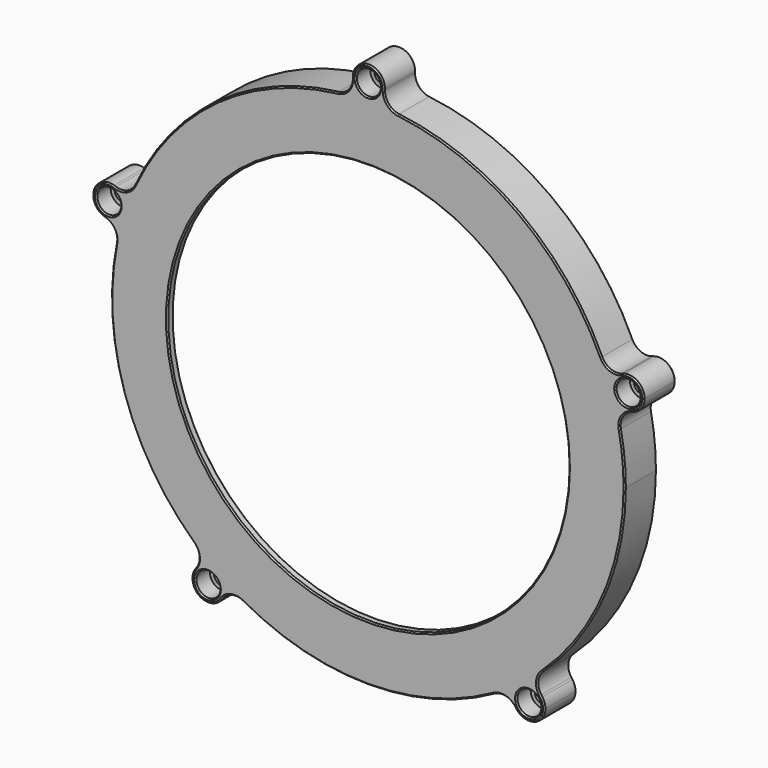
from build123d import *

# Parameters (mm, degrees)
F0_R     = 3.175
F0_R_2   = 98.425
F1_DEPTH = 15.875
F0_R_3   = 79.375
F2_DEPTH = 3.175
F3_R     = 6.35
F4_R     = 4.7625
F4_R_2   = 3.175
F5_DEPTH = 7.112
F6_SIZE  = 0.508


with BuildPart() as f1:
    # F0 (on Front) → F1 (new body)
    with BuildSketch(Plane.XZ):
        with BuildLine():
            ThreePointArc((94.476174201, 37.3739549465), (95.5984942164, 34.401859013), (96.6273421242, 31.3961264172))
            ThreePointArc((96.6273421242, 31.3961264172), (97.008659455, 36.2412241172), (100.7042930198, 39.3975934212))
            Line((100.7042930198, 39.3975934212), (94.476174201, 37.3739549465))
        make_face()
        with BuildLine():
            ThreePointArc((96.6273421242, 31.3961264172), (97.5617118991, 28.3596962488), (98.4006900295, 25.2955371896))
            Line((98.4006900295, 25.2955371896), (104.6288088483, 27.3191756643))
            ThreePointArc((104.6288088483, 27.3191756643), (99.7837113597, 27.7004930638), (96.6273421242, 31.3961264172))
        make_face()
        with BuildLine():
            ThreePointArc((100.7042930198, 39.3975934212), (97.008659455, 36.2412241172), (96.6273421242, 31.3961264172))
            ThreePointArc((96.6273421242, 31.3961264172), (99.7837113597, 27.7004930638), (104.6288088483, 27.3191756643))
            ThreePointArc((104.6288088483, 27.3191756643), (107.8038088483, 29.6259481907), (109.0165509341, 33.3583845428))
            ThreePointArc((109.0165509341, 33.3583845428), (106.3989872861, 38.4956424571), (100.7042930198, 39.3975934212))
        make_face()
        with Locations((102.6665509341, 33.3583845428)):
            Circle(F0_R, mode=Mode.SUBTRACT)
        with BuildLine():
            Line((68.5886758993, -83.6009481907), (64.7394867833, -78.302993883))
            ThreePointArc((64.7394867833, -78.302993883), (62.2596715502, -80.2888117888), (59.7189814811, -82.1961267388))
            ThreePointArc((59.7189814811, -82.1961267388), (64.4447767453, -81.0615635653), (68.5886758993, -83.6009481907))
        make_face()
        with BuildLine():
            ThreePointArc((68.5886758993, -83.6009481907), (64.4447767453, -81.0615635653), (59.7189814811, -82.1961267388))
            ThreePointArc((59.7189814811, -82.1961267388), (57.1795970075, -86.3400257824), (58.3141600707, -91.0658208948))
            ThreePointArc((58.3141600707, -91.0658208948), (65.4136758993, -93.3725934212), (69.801417985, -87.3333845428))
            ThreePointArc((69.801417985, -87.3333845428), (69.4906268634, -85.3711266285), (68.5886758993, -83.6009481907))
        make_face()
        with Locations((63.451417985, -87.3333845428)):
            Circle(F0_R, mode=Mode.SUBTRACT)
        with BuildLine():
            ThreePointArc((58.3141600707, -91.0658208948), (57.1795970075, -86.3400257824), (59.7189814811, -82.1961267388))
            ThreePointArc((59.7189814811, -82.1961267388), (57.119900909, -84.0230737366), (54.4649709547, -85.7678665871))
            Line((54.4649709547, -85.7678665871), (58.3141600707, -91.0658208948))
        make_face()
        with BuildLine():
            Line((-58.3141600707, -91.0658208948), (-54.4649709547, -85.7678665871))
            ThreePointArc((-54.4649709547, -85.7678665871), (-57.1199011195, -84.0230735935), (-59.7189818929, -82.1961264396))
            ThreePointArc((-59.7189818929, -82.1961264396), (-57.7935266293, -84.4505447262), (-57.101417985, -87.3333845428))
            ThreePointArc((-57.101417985, -87.3333845428), (-57.4122091065, -89.2956424571), (-58.3141600707, -91.0658208948))
        make_face()
        with BuildLine():
            ThreePointArc((-68.5886758993, -83.6009481907), (-64.4447769967, -81.0615636051), (-59.7189818929, -82.1961264396))
            ThreePointArc((-59.7189818929, -82.1961264396), (-62.2596717513, -80.2888116329), (-64.7394867833, -78.302993883))
            Line((-64.7394867833, -78.302993883), (-68.5886758993, -83.6009481907))
        make_face()
        with BuildLine():
            ThreePointArc((-57.101417985, -87.3333845428), (-57.7935266293, -84.4505447262), (-59.7189818929, -82.1961264396))
            ThreePointArc((-59.7189818929, -82.1961264396), (-64.4447769967, -81.0615636051), (-68.5886758993, -83.6009481907))
            ThreePointArc((-68.5886758993, -83.6009481907), (-67.183854337, -92.4706424571), (-58.3141600707, -91.0658208948))
            ThreePointArc((-58.3141600707, -91.0658208948), (-57.4122091065, -89.2956424571), (-57.101417985, -87.3333845428))
        make_face()
        with Locations((-63.451417985, -87.3333845428)):
            Circle(F0_R, mode=Mode.SUBTRACT)
        with BuildLine():
            ThreePointArc((-104.6288088483, 27.3191756643), (-99.7837113781, 27.7004930543), (-96.627342137, 31.3961263778))
            ThreePointArc((-96.627342137, 31.3961263778), (-96.3947299919, 32.3650255596), (-96.3165509341, 33.3583845428))
            ThreePointArc((-96.3165509341, 33.3583845428), (-97.5292930198, 37.0908208948), (-100.7042930198, 39.3975934212))
            ThreePointArc((-100.7042930198, 39.3975934212), (-108.7057598125, 35.3206424571), (-104.6288088483, 27.3191756643))
        make_face()
        with Locations((-102.6665509341, 33.3583845428)):
            Circle(F0_R, mode=Mode.SUBTRACT)
        with BuildLine():
            ThreePointArc((-96.627342137, 31.3961263778), (-95.5984942234, 34.4018589935), (-94.476174201, 37.3739549465))
            Line((-94.476174201, 37.3739549465), (-100.7042930198, 39.3975934212))
            ThreePointArc((-100.7042930198, 39.3975934212), (-97.5292930198, 37.0908208948), (-96.3165509341, 33.3583845428))
            ThreePointArc((-96.3165509341, 33.3583845428), (-96.3947299919, 32.3650255596), (-96.627342137, 31.3961263778))
        make_face()
        with BuildLine():
            Line((-104.6288088483, 27.3191756643), (-98.4006900295, 25.2955371896))
            ThreePointArc((-98.4006900295, 25.2955371896), (-97.5617119048, 28.3596962289), (-96.627342137, 31.3961263778))
            ThreePointArc((-96.627342137, 31.3961263778), (-99.7837113781, 27.7004930543), (-104.6288088483, 27.3191756643))
        make_face()
        with BuildLine():
            ThreePointArc((-6.35, 107.95), (-4.490128111, 103.4598719899), (-1.426e-07, 101.6))
            ThreePointArc((-1.426e-07, 101.6), (4.4901280101, 103.459871889), (6.35, 107.95))
            ThreePointArc((6.35, 107.95), (0, 114.3), (-6.35, 107.95))
        make_face()
        with Locations((0, 107.95)):
            Circle(F0_R, mode=Mode.SUBTRACT)
        with BuildLine():
            ThreePointArc((-1.426e-07, 101.6), (3.1765528772, 101.5503299444), (6.35, 101.401368334))
            Line((6.35, 101.401368334), (6.35, 107.95))
            ThreePointArc((6.35, 107.95), (4.4901280101, 103.459871889), (-1.426e-07, 101.6))
        make_face()
        with BuildLine():
            ThreePointArc((-6.35, 101.401368334), (-3.1765530198, 101.5503299399), (-1.426e-07, 101.6))
            ThreePointArc((-1.426e-07, 101.6), (-4.490128111, 103.4598719899), (-6.35, 107.95))
            Line((-6.35, 107.95), (-6.35, 101.401368334))
        make_face()
        with BuildLine():
            ThreePointArc((64.7394867833, -78.302993883), (91.9241313725, -43.2725556376), (101.6, 0))
            ThreePointArc((101.6, 0), (100.7969992287, 12.7485272286), (98.4006900295, 25.2955371896))
            ThreePointArc((98.4006900295, 25.2955371896), (97.5617118991, 28.3596962488), (96.6273421242, 31.3961264172))
            ThreePointArc((96.6273421242, 31.3961264172), (95.5984942164, 34.401859013), (94.476174201, 37.3739549465))
            ThreePointArc((94.476174201, 37.3739549465), (59.7189816329, 82.1961266285), (6.35, 101.401368334))
            ThreePointArc((6.35, 101.401368334), (3.1765528772, 101.5503299444), (-1.426e-07, 101.6))
            ThreePointArc((-1.426e-07, 101.6), (-3.1765530198, 101.5503299399), (-6.35, 101.401368334))
            ThreePointArc((-6.35, 101.401368334), (-59.7189816329, 82.1961266285), (-94.476174201, 37.3739549465))
            ThreePointArc((-94.476174201, 37.3739549465), (-95.5984942234, 34.4018589935), (-96.627342137, 31.3961263778))
            ThreePointArc((-96.627342137, 31.3961263778), (-97.5617119048, 28.3596962289), (-98.4006900295, 25.2955371896))
            ThreePointArc((-98.4006900295, 25.2955371896), (-96.6273420556, -31.3961266285), (-64.7394867833, -78.302993883))
            ThreePointArc((-64.7394867833, -78.302993883), (-62.2596717513, -80.2888116329), (-59.7189818929, -82.1961264396))
            ThreePointArc((-59.7189818929, -82.1961264396), (-57.1199011195, -84.0230735935), (-54.4649709547, -85.7678665871))
            ThreePointArc((-54.4649709547, -85.7678665871), (0, -101.6), (54.4649709547, -85.7678665871))
            ThreePointArc((54.4649709547, -85.7678665871), (57.119900909, -84.0230737366), (59.7189814811, -82.1961267388))
            ThreePointArc((59.7189814811, -82.1961267388), (62.2596715502, -80.2888117888), (64.7394867833, -78.302993883))
        make_face()
        Circle(F0_R_2, mode=Mode.SUBTRACT)
    extrude(amount=-F1_DEPTH)

    # F0 (on Front) → F2 (join)
    with BuildSketch(Plane.XZ):
        Circle(F0_R_2)
        Circle(F0_R_3, mode=Mode.SUBTRACT)
    extrude(amount=-F2_DEPTH)

    # F3
    f3_edges = [f1.edges().sort_by_distance(p)[0] for p in [
        (-98.40069, 7.9375, 25.295537),
        (-64.739487, 7.9375, -78.302994),
        (-54.464971, 7.9375, -85.767867),
        (54.464971, 7.9375, -85.767867),
        (64.739487, 7.9375, -78.302994),
        (94.476174, 7.9375, 37.373955),
        (6.35, 7.9375, 101.401368),
        (-6.35, 7.9375, 101.401368),
        (-94.476174, 7.9375, 37.373955),
        (98.40069, 7.9375, 25.295537),
    ]]
    fillet(f3_edges, radius=F3_R)

    # F4 (on face) → F5 (cut)
    with BuildSketch(Plane.XZ):
        with Locations((-63.451417985, -87.3333845428)):
            Circle(F4_R)
        with Locations((-63.451417985, -87.3333845428)):
            Circle(F4_R_2, mode=Mode.SUBTRACT)
        with Locations((-102.6665509341, 33.3583845428)):
            Circle(F4_R)
        with Locations((-102.6665509341, 33.3583845428)):
            Circle(F4_R_2, mode=Mode.SUBTRACT)
        with Locations((0, 107.95)):
            Circle(F4_R)
        with Locations((0, 107.95)):
            Circle(F4_R_2, mode=Mode.SUBTRACT)
        with Locations((102.6665509341, 33.3583845428)):
            Circle(F4_R)
        with Locations((102.6665509341, 33.3583845428)):
            Circle(F4_R_2, mode=Mode.SUBTRACT)
        with Locations((63.451417985, -87.3333845428)):
            Circle(F4_R)
        with Locations((63.451417985, -87.3333845428)):
            Circle(F4_R_2, mode=Mode.SUBTRACT)
    extrude(amount=-F5_DEPTH, mode=Mode.SUBTRACT)

    # F6
    f6_edges = [f1.edges().sort_by_distance(p)[0] for p in [
        (-59.718982, 0, 82.196127),
        (-96.627342, 15.875, -31.396127),
        (-79.375, 3.175, 0),
        (-79.375, 0, 0),
        (-107.429051, 0, 33.358385),
        (-4.7625, 0, 107.95),
        (-68.213918, 0, -87.333385),
        (97.904051, 0, 33.358385),
        (58.688918, 0, -87.333385),
        (-98.425, 15.875, 0),
        (-3.175, 15.875, 107.95),
        (-105.841551, 15.875, 33.358385),
        (-66.626418, 15.875, -87.333385),
        (60.276418, 15.875, -87.333385),
        (99.491551, 15.875, 33.358385),
    ]]
    chamfer(f6_edges, length=F6_SIZE)


solid = f1.part
